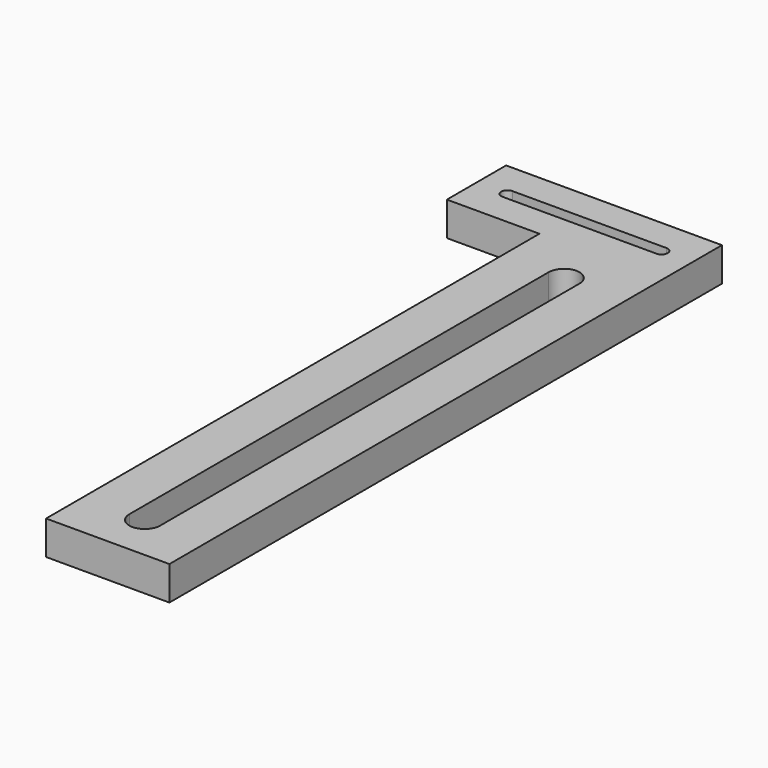
from build123d import *

# Parameters (mm, degrees)
F1_DEPTH = 5.5


with BuildPart() as f1:
    # F0 (on Top) → F1 (new body)
    with BuildSketch(Plane.XY):
        Polygon((0, 100), (0, 0), (20, 0), (20, 112), (-15, 112), (-15, 100), align=None)
        with BuildLine():
            ThreePointArc((12.5, 7.500005), (10.000003, 5), (7.5, 7.5))
            Line((7.5, 7.5), (7.5, 92.5))
            ThreePointArc((7.5, 92.5), (10.014583, 94.999957), (12.49983, 92.470835))
            Line((12.49983, 92.470835), (12.5, 7.500005))
        make_face(mode=Mode.SUBTRACT)
        with BuildLine():
            ThreePointArc((15, 107), (16, 106), (15, 105))
            Line((15, 105), (-10, 105))
            ThreePointArc((-10, 105), (-11, 106), (-10, 107))
            Line((-10, 107), (15, 107))
        make_face(mode=Mode.SUBTRACT)
    extrude(amount=F1_DEPTH)


solid = f1.part
